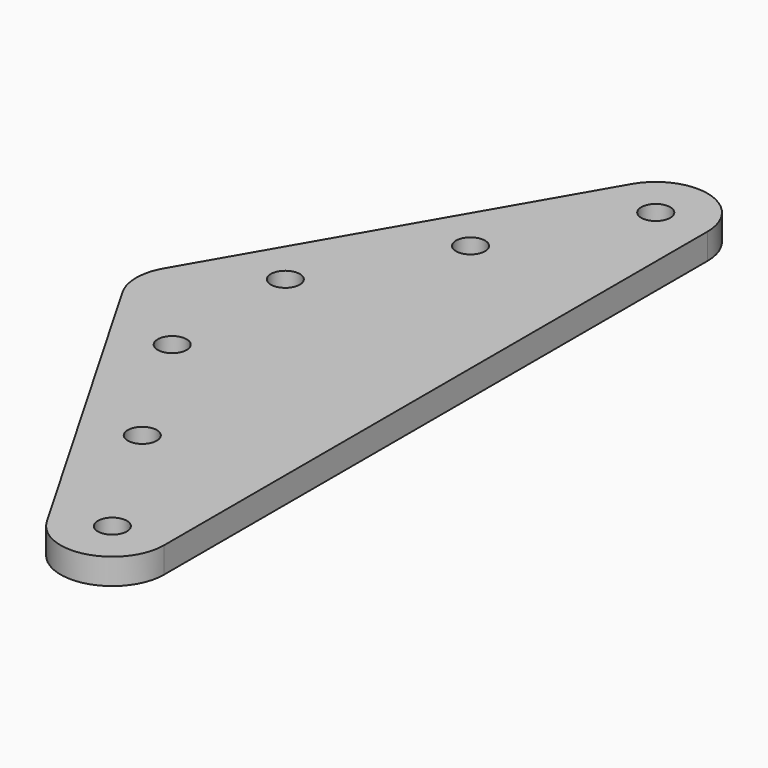
from build123d import *

# Parameters (mm, degrees)
F0_R     = 2.8
F1_DEPTH = 5


with BuildPart() as f1:
    # F0 (on Top) → F1 (new body)
    with BuildSketch(Plane.XY):
        with BuildLine():
            Line((47.886751, -65.621778), (47.886751, 0))
            Line((47.886751, 0), (47.886751, 65.621778))
            ThreePointArc((47.886751, 65.621778), (40.474942, 75.281037), (29.226497, 70.621778))
            Line((29.226497, 70.621778), (-8.660254, 5))
            ThreePointArc((-8.660254, 5), (-9.659258, 2.58819), (-10, 0))
            ThreePointArc((-10, 0), (-9.659258, -2.58819), (-8.660254, -5))
            Line((-8.660254, -5), (29.226497, -70.621778))
            ThreePointArc((29.226497, -70.621778), (40.474942, -75.281037), (47.886751, -65.621778))
        make_face()
        with Locations((7.886751, -13.660254)):
            Circle(F0_R, mode=Mode.SUBTRACT)
        with Locations((22.886751, -39.641016)):
            Circle(F0_R, mode=Mode.SUBTRACT)
        with Locations((37.886751, -65.621778)):
            Circle(F0_R, mode=Mode.SUBTRACT)
        with Locations((7.886751, 13.660254)):
            Circle(F0_R, mode=Mode.SUBTRACT)
        with Locations((22.886751, 39.641016)):
            Circle(F0_R, mode=Mode.SUBTRACT)
        with Locations((37.886751, 65.621778)):
            Circle(F0_R, mode=Mode.SUBTRACT)
    extrude(amount=F1_DEPTH)


solid = f1.part
